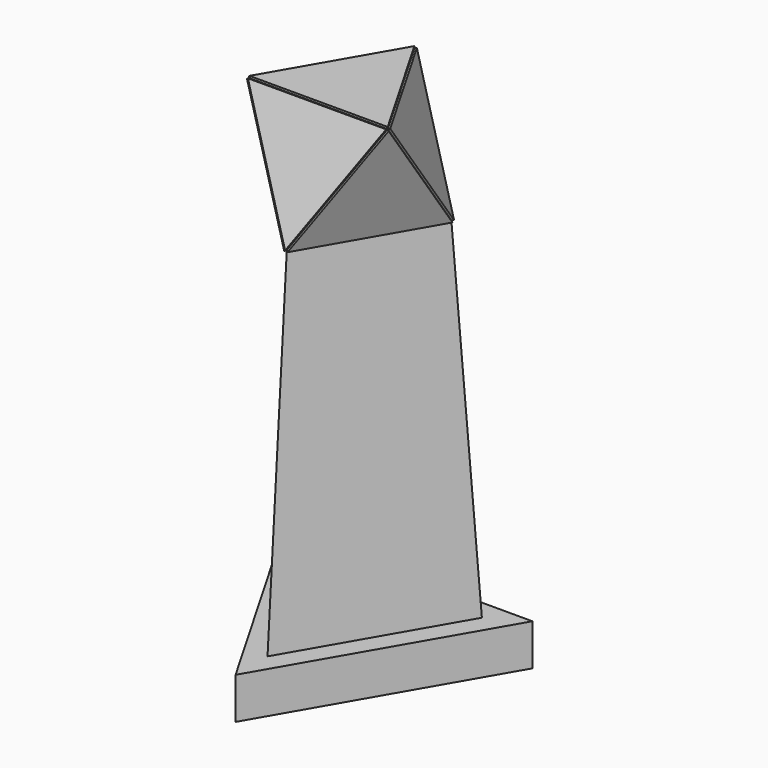
from build123d import *

# Parameters (mm, degrees)
F1_DEPTH  = 3
F4_ANGLE  = 109.47
F7_ANGLE  = -109.47
F9_COUNT  = 3
F11_ANGLE = 109.47
F12_COUNT = 3
F15_ANGLE = -109.47
F21_DEPTH = 30


with BuildPart() as f1:
    # F0 (on Top) → F1 (new body)
    with BuildSketch(Plane.XY):
        Polygon((50, 28.8675134595), (-50, 28.8675134595), (0, -57.735026919), align=None)
    extrude(amount=F1_DEPTH)


with BuildPart() as f3_1:
    # F3: copy of F1
    add(f1.part)


with BuildPart() as f3_1_1:
    # F4: moved
    add(f3_1.part.rotate(Axis((-25, -14.4337567297, 1.5), (0.5, -0.8660254038, 0)), F4_ANGLE))


with BuildPart() as f5_1:
    # F5: copy of F1
    add(f1.part)


with BuildPart() as f5_1_1:
    # F7: moved
    add(f5_1.part.rotate(Axis((0, 28.8675134595, 1.5), (1, 0, 0)), F7_ANGLE))


with BuildPart() as f9_1:
    # F9: instance of F3_1
    add(f3_1_1.part.rotate(Axis((0, 0, 37.9892624915), (0, 0, 1)), 1 * 360 / F9_COUNT))


with BuildPart() as f9_2:
    # F9: instance of F3_1
    add(f3_1_1.part.rotate(Axis((0, 0, 37.9892624915), (0, 0, 1)), 2 * 360 / F9_COUNT))


with BuildPart() as f5_1_2:
    # F11: moved
    add(f5_1_1.part.rotate(Axis((25, 43.3004004501, 42.3251365352), (-0.5, 0.2886577398, 0.8165027307)), F11_ANGLE))


with BuildPart() as f12_1:
    # F12: instance of F5_1
    add(f5_1_2.part.rotate(Axis((0, 0, 37.9892624915), (0, 0, 1)), 1 * 360 / F12_COUNT))


with BuildPart() as f12_2:
    # F12: instance of F5_1
    add(f5_1_2.part.rotate(Axis((0, 0, 37.9892624915), (0, 0, 1)), 2 * 360 / F12_COUNT))


with BuildPart() as f14_1:
    # F14: copy of F5_1
    add(f5_1_2.part)


with BuildPart() as f14_1_1:
    # F15: moved
    add(f14_1.part.rotate(Axis((24.9992467838, 14.4315824081, 83.1490430642), (0.4999849357, -0.8660341007, -2.46001e-05)), F15_ANGLE))


with BuildPart() as f1_1:
    add(f1.part)

    # F18 (on face) → F19 section 0
    with BuildSketch(Plane(origin=(0, 0, 0), x_dir=(1, 0, 0), z_dir=(0, 0, -1))):
        Polygon((0, 57.735026919), (-50, -28.8675134595), (50, -28.8675134595), align=None)
    # F17 (on offset) → F19 section 1
    with BuildSketch(Plane.XY.offset(-250)):
        Polygon((0, -75.0555349947), (65, 37.5277674973), (-65, 37.5277674973), align=None)
    loft()

    # F20 (on face) → F21 (join)
    with BuildSketch(Plane(origin=(0, 0, -250), x_dir=(1, 0, 0), z_dir=(0, 0, -1))):
        Polygon((0, 103.9230484541), (-90, -51.9615242271), (90, -51.9615242271), align=None)
        Polygon((-65, -37.5277674973), (0, 75.0555349947), (65, -37.5277674973), align=None, mode=Mode.SUBTRACT)
        Polygon((65, -37.5277674973), (0, 75.0555349947), (-65, -37.5277674973), align=None)
    extrude(amount=F21_DEPTH)


solid = Compound([f3_1_1.part, f9_1.part, f9_2.part, f5_1_2.part, f12_1.part, f12_2.part, f14_1_1.part, f1_1.part])
